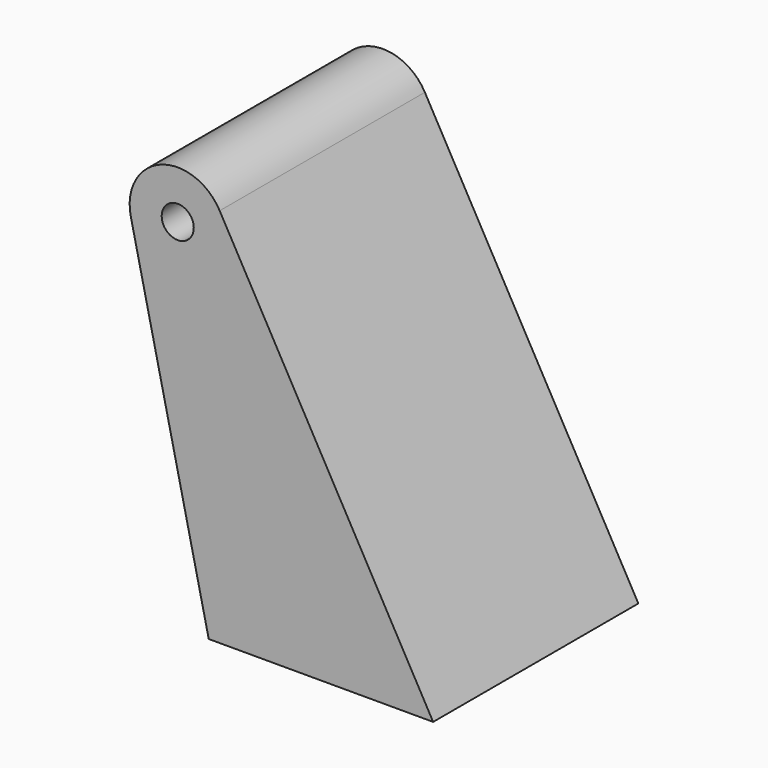
from build123d import *

# Parameters (mm, degrees)
F1_DEPTH = 40


with BuildPart() as f1:
    # F0 (on Front) → F1 (new body)
    with BuildSketch(Plane.XZ):
        with BuildLine():
            Line((-29.651248, 54.043128), (-17.5, 0))
            Line((-17.5, 0), (0, 0))
            Line((0, 0), (-19.542188, 48.727332))
            ThreePointArc((-19.542188, 48.727332), (-25.824579, 49.050204), (-29.651248, 54.043128))
        make_face()
        with BuildLine():
            Line((-19.542188, 48.727332), (0, 0))
            Line((0, 0), (17.5, 0))
            Line((17.5, 0), (-15.792603, 59.357309))
            ThreePointArc((-15.792603, 59.357309), (-15.077555, 57.584434), (-14.83393, 55.688379))
            ThreePointArc((-14.83393, 55.688379), (-16.12152, 51.486478), (-19.542188, 48.727332))
        make_face()
        with BuildLine():
            ThreePointArc((-19.83393, 55.688379), (-24.404733, 57.089013), (-21.403349, 53.36803))
            ThreePointArc((-21.403349, 53.36803), (-20.263127, 54.287746), (-19.83393, 55.688379))
        make_face()
        with BuildLine():
            ThreePointArc((-15.792603, 59.357309), (-25.019199, 62.691188), (-29.651248, 54.043128))
            ThreePointArc((-29.651248, 54.043128), (-25.824579, 49.050204), (-19.542188, 48.727332))
            ThreePointArc((-19.542188, 48.727332), (-16.12152, 51.486478), (-14.83393, 55.688379))
            ThreePointArc((-14.83393, 55.688379), (-15.077555, 57.584434), (-15.792603, 59.357309))
        make_face()
        with BuildLine():
            ThreePointArc((-19.83393, 55.688379), (-20.263127, 54.287746), (-21.403349, 53.36803))
            ThreePointArc((-21.403349, 53.36803), (-24.404733, 57.089013), (-19.83393, 55.688379))
        make_face(mode=Mode.SUBTRACT)
    extrude(amount=F1_DEPTH)


solid = f1.part
